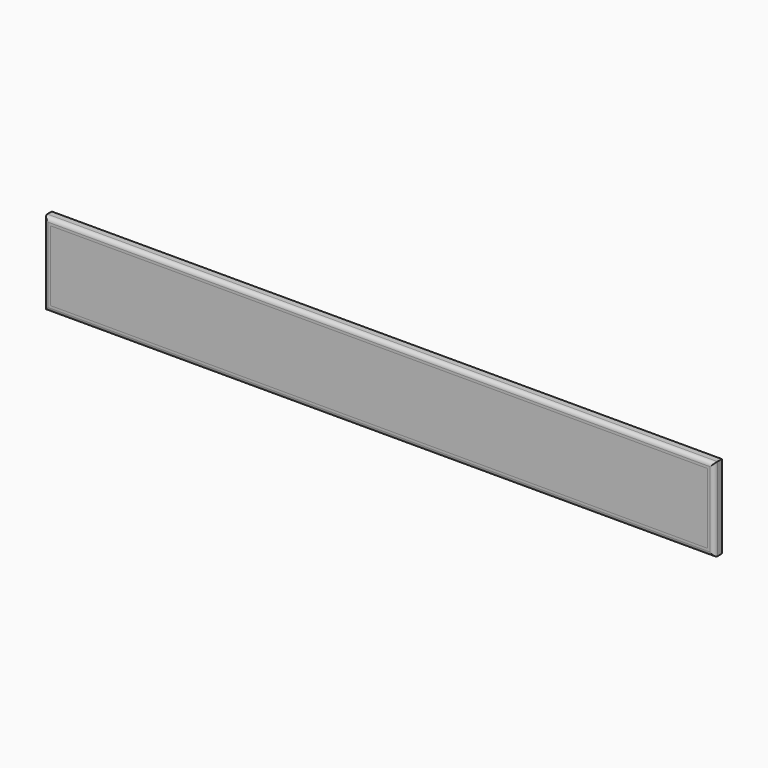
from build123d import *

# Parameters (mm, degrees)
F0_W     = 1010
F0_H     = 108
F1_DEPTH = 15
F0_W_2   = 1030
F0_H_2   = 128
F2_DEPTH = 15
F3_R     = 6.3


with BuildPart() as f1:
    # F0 (on Front) → F1 (new body)
    with BuildSketch(Plane.XZ):
        with Locations((0, -6)):
            Rectangle(F0_W, F0_H)
    extrude(amount=F1_DEPTH)


with BuildPart() as f2:
    # F0 (on Front) → F2 (new body)
    with BuildSketch(Plane.XZ):
        with Locations((0, -6)):
            Rectangle(F0_W_2, F0_H_2)
        with Locations((0, -6)):
            Rectangle(F0_W, F0_H, mode=Mode.SUBTRACT)
    extrude(amount=F2_DEPTH)

    # F3
    f3_edges = [f2.edges().sort_by_distance(p)[0] for p in [
        (0, -15, 58),
        (-515, -15, -6),
        (0, -15, -70),
        (515, -15, -6),
    ]]
    fillet(f3_edges, radius=F3_R)


solid = Compound([f1.part, f2.part])
